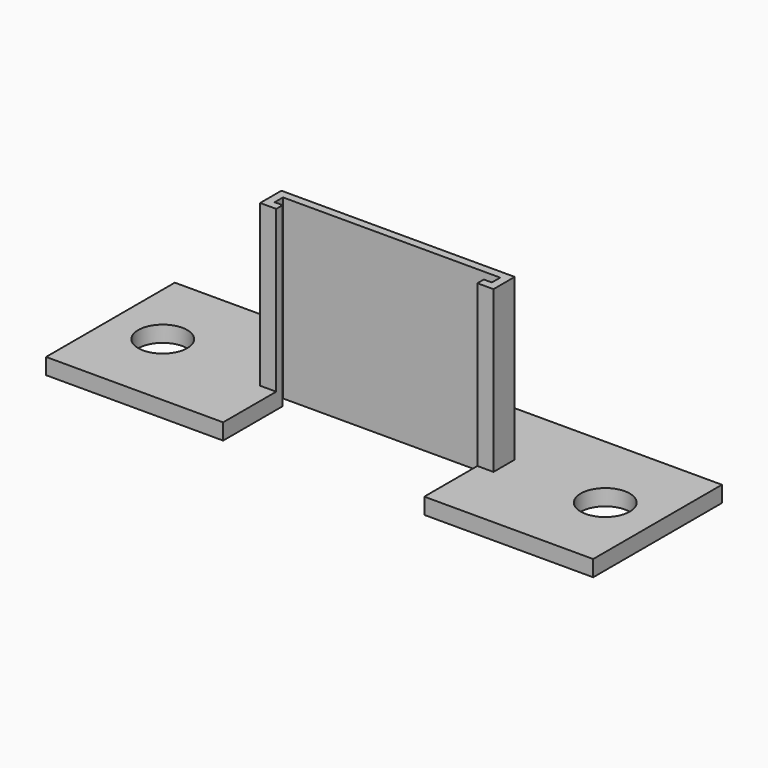
from build123d import *

# Parameters (mm, degrees)
F0_R     = 3.05
F1_DEPTH = 2
F2_W     = 27
F2_H     = 1
F3_DEPTH = 20


with BuildPart() as f1:
    # F0 (on Top) → F1 (new body)
    with BuildSketch(Plane.XY):
        Polygon((6, 20), (6, 0), (28.006723, 0), (28.006723, 9.25), (27.006723, 9.25), (27.006723, 10.55), (54.006723, 10.55), (54.006723, 9.25), (53.006723, 9.25), (53.006723, 0), (74, 0), (74, 20), align=None)
        with Locations((12.5, 10)):
            Circle(F0_R, mode=Mode.SUBTRACT)
        with Locations((67.5, 10)):
            Circle(F0_R, mode=Mode.SUBTRACT)
    extrude(amount=F1_DEPTH)

    # F2 (on face) → F3 (join)
    with BuildSketch(Plane.XY.offset(2)):
        with Locations((40.506723, 11.05)):
            Rectangle(F2_W, F2_H)
        Polygon((27.006723, 9.25), (27.006723, 10.55), (27.006723, 11.55), (26.006723, 11.55), (26.006723, 9.25), align=None)
        Polygon((54.006723, 11.55), (54.006723, 10.55), (54.006723, 9.25), (55.006723, 9.25), (55.006723, 11.55), align=None)
        Polygon((28.006723, 9.25), (27.006723, 9.25), (26.006723, 9.25), (26.006723, 8.25), (28.006723, 8.25), align=None)
        Polygon((55.006723, 9.25), (54.006723, 9.25), (53.006723, 9.25), (53.006723, 8.25), (55.006723, 8.25), align=None)
    extrude(amount=F3_DEPTH)


solid = f1.part
